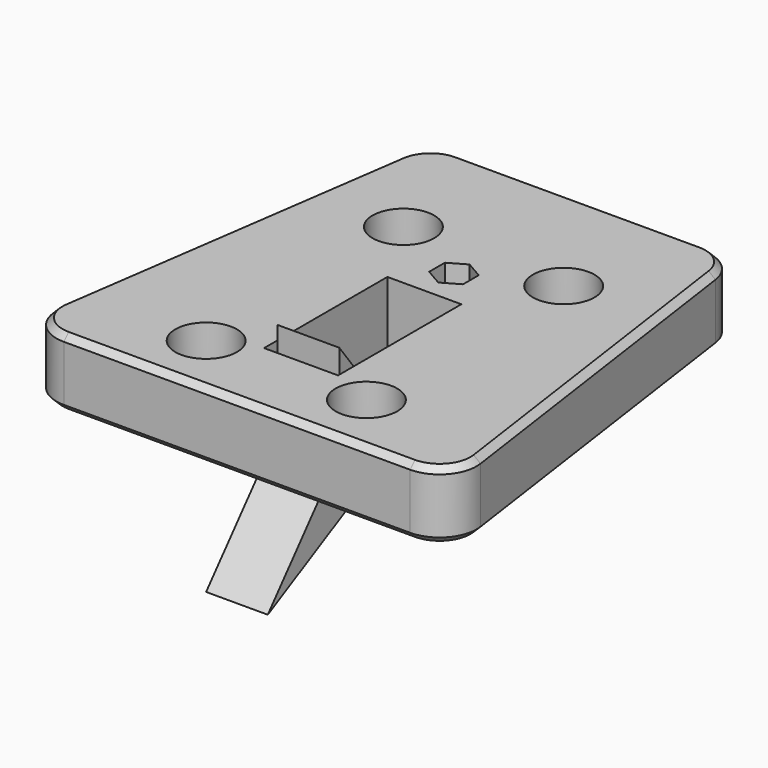
from build123d import *

# Parameters (mm, degrees)
F0_R      = 5
F0_W      = 12
F0_H      = 25
F0_R_2    = 1.75
F0_R_3    = 2.75
F1_DEPTH  = 11
F2_SIZE   = 1
F3_SIZE   = 1
F4_DEPTH  = 6
F6_DEPTH  = 5
F8_R      = 4
F7_R      = 1.75
F9_DEPTH  = 3.2850317657
F10_R     = 1.75
F11_DEPTH = 5


with BuildPart() as f1:
    # F0 (on Top) → F1 (new body)
    with BuildSketch(Plane.XY):
        with BuildLine():
            ThreePointArc((-34.0216388375, 6.8485281374), (-32.6146656055, 2.0687895518), (-28.0819418755, 0))
            Line((-28.0819418755, 0), (28.0819418755, 0))
            ThreePointArc((28.0819418755, 0), (32.6146656055, 2.0687895518), (34.0216388375, 6.8485281374))
            Line((34.0216388375, 6.8485281374), (25.7359245518, 64.8485281374))
            ThreePointArc((25.7359245518, 64.8485281374), (23.727438038, 68.53272373), (19.7962275898, 70))
            Line((19.7962275898, 70), (-19.7962275898, 70))
            ThreePointArc((-19.7962275898, 70), (-23.727438038, 68.53272373), (-25.7359245518, 64.8485281374))
            Line((-25.7359245518, 64.8485281374), (-34.0216388375, 6.8485281374))
        make_face()
        with Locations((-13, 10)):
            Circle(F0_R, mode=Mode.SUBTRACT)
        with Locations((0, 25.5)):
            Rectangle(F0_W, F0_H, mode=Mode.SUBTRACT)
        with Locations((13, 10)):
            Circle(F0_R, mode=Mode.SUBTRACT)
        with Locations((-13, 50)):
            Circle(F0_R, mode=Mode.SUBTRACT)
        with Locations((0, 44)):
            Circle(F0_R_2, mode=Mode.SUBTRACT)
        with Locations((13, 50)):
            Circle(F0_R, mode=Mode.SUBTRACT)
        with BuildLine():
            ThreePointArc((-34.0216388375, 6.8485281374), (-32.6146656055, 2.0687895518), (-28.0819418755, 0))
            Line((-28.0819418755, 0), (28.0819418755, 0))
            ThreePointArc((28.0819418755, 0), (32.6146656055, 2.0687895518), (34.0216388375, 6.8485281374))
            Line((34.0216388375, 6.8485281374), (25.7359245518, 64.8485281374))
            ThreePointArc((25.7359245518, 64.8485281374), (23.727438038, 68.53272373), (19.7962275898, 70))
            Line((19.7962275898, 70), (-19.7962275898, 70))
            ThreePointArc((-19.7962275898, 70), (-23.727438038, 68.53272373), (-25.7359245518, 64.8485281374))
            Line((-25.7359245518, 64.8485281374), (-34.0216388375, 6.8485281374))
        make_face()
        with Locations((-13, 10)):
            Circle(F0_R, mode=Mode.SUBTRACT)
        with Locations((0, 25.5)):
            Rectangle(F0_W, F0_H, mode=Mode.SUBTRACT)
        with Locations((13, 10)):
            Circle(F0_R, mode=Mode.SUBTRACT)
        with Locations((-13, 50)):
            Circle(F0_R, mode=Mode.SUBTRACT)
        with Locations((0, 44)):
            Circle(F0_R_2, mode=Mode.SUBTRACT)
        with Locations((13, 50)):
            Circle(F0_R, mode=Mode.SUBTRACT)
        with Locations((13, 50)):
            Circle(F0_R)
        with Locations((13, 50)):
            Circle(F0_R_3, mode=Mode.SUBTRACT)
        with Locations((13, 10)):
            Circle(F0_R)
        with Locations((13, 10)):
            Circle(F0_R_3, mode=Mode.SUBTRACT)
        with Locations((-13, 10)):
            Circle(F0_R)
        with Locations((-13, 10)):
            Circle(F0_R_3, mode=Mode.SUBTRACT)
        with Locations((-13, 50)):
            Circle(F0_R)
        with Locations((-13, 50)):
            Circle(F0_R_3, mode=Mode.SUBTRACT)
    extrude(amount=-F1_DEPTH)

    # F2
    f2_edges = [f1.edges().sort_by_distance(p)[0] for p in [
        (29.878782, 35.848528, 0),
    ]]
    chamfer(f2_edges, length=F2_SIZE)

    # F3
    f3_edges = [f1.edges().sort_by_distance(p)[0] for p in [
        (-29.878782, 35.848528, -11),
    ]]
    chamfer(f3_edges, length=F3_SIZE)

    # F0 (on Top) → F4 (cut)
    with BuildSketch(Plane.XY):
        with Locations((-13, 50)):
            Circle(F0_R)
        with Locations((-13, 50)):
            Circle(F0_R_3, mode=Mode.SUBTRACT)
        with Locations((13, 50)):
            Circle(F0_R)
        with Locations((13, 50)):
            Circle(F0_R_3, mode=Mode.SUBTRACT)
        with Locations((13, 10)):
            Circle(F0_R)
        with Locations((13, 10)):
            Circle(F0_R_3, mode=Mode.SUBTRACT)
        with Locations((-13, 10)):
            Circle(F0_R)
        with Locations((-13, 10)):
            Circle(F0_R_3, mode=Mode.SUBTRACT)
    extrude(amount=-F4_DEPTH, mode=Mode.SUBTRACT)

    # F10 (on face) → F11 (cut)
    with BuildSketch(Plane.XY):
        Polygon((2.75, 42.4122867597), (2.75, 45.5877132403), (0, 47.1754264805), (-2.75, 45.5877132403), (-2.75, 42.4122867597), (0, 40.8245735195), align=None)
        with Locations((0, 44)):
            Circle(F10_R, mode=Mode.SUBTRACT)
    extrude(amount=-F11_DEPTH, mode=Mode.SUBTRACT)


with BuildPart() as f6:
    # F5 (on Right) → F6 (new body, symmetric)
    with BuildSketch(Plane.YZ):
        with BuildLine():
            Line((50.4115372896, -15.4683683068), (50.4115372896, -12.1833365411))
            Line((50.4115372896, -12.1833365411), (28.478592073, -12.1833365411))
            ThreePointArc((28.478592073, -12.1833365411), (26.2507662739, -11.6595841), (24.4896721551, -10.1980534247))
            Line((24.4896721551, -10.1980534247), (14.5013537258, 3.017981071))
            Line((14.5013537258, 3.017981071), (14.5013537258, -10.3431800478))
            ThreePointArc((14.5013537258, -10.3431800478), (14.1936622933, -12.0700964636), (13.3084576029, -13.5844699251))
            Line((13.3084576029, -13.5844699251), (0, -29.216111172))
            Line((0, -29.216111172), (24.8931582504, -16.0486049021))
            ThreePointArc((24.8931582504, -16.0486049021), (26.0266350445, -15.6155950263), (27.2310400795, -15.4683683068))
            Line((27.2310400795, -15.4683683068), (50.4115372896, -15.4683683068))
        make_face()
    extrude(amount=F6_DEPTH, both=True)

    # F8
    f8_edges = [f6.edges().sort_by_distance(p)[0] for p in [
        (5, 50.411537, -13.825852),
        (-5, 50.411537, -13.825852),
    ]]
    fillet(f8_edges, radius=F8_R)

    # F7 (on face) → F9 (cut, through all)
    with BuildSketch(Plane(origin=(0, 0, -15.4683683068), x_dir=(1, 0, 0), z_dir=(0, 0, -1))):
        with Locations((0, -44)):
            Circle(F7_R)
    extrude(amount=-F9_DEPTH, mode=Mode.SUBTRACT)


solid = Compound([f1.part, f6.part])
